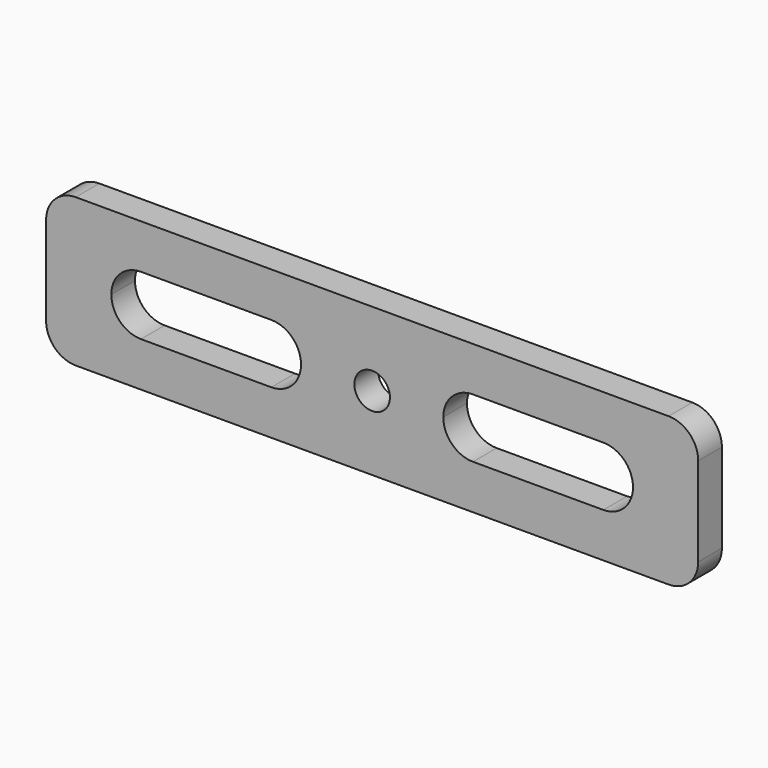
from build123d import *

# Parameters (mm, degrees)
F0_R     = 3
F1_DEPTH = 5


with BuildPart() as f1:
    # F0 (on Front) → F1 (new body)
    with BuildSketch(Plane.XZ):
        with BuildLine():
            Line((50, 12.5), (-50, 12.5))
            ThreePointArc((-50, 12.5), (-53.535534, 11.035534), (-55, 7.5))
            Line((-55, 7.5), (-55, -7.5))
            ThreePointArc((-55, -7.5), (-53.535534, -11.035534), (-50, -12.5))
            Line((-50, -12.5), (50, -12.5))
            ThreePointArc((50, -12.5), (53.535534, -11.035534), (55, -7.5))
            Line((55, -7.5), (55, 7.5))
            ThreePointArc((55, 7.5), (53.535534, 11.035534), (50, 12.5))
        make_face()
        with BuildLine():
            ThreePointArc((-44, 0), (-42.535534, 3.535534), (-39, 5))
            Line((-39, 5), (-17, 5))
            ThreePointArc((-17, 5), (-13.464466, 3.535534), (-12, 0))
            ThreePointArc((-12, 0), (-13.464466, -3.535534), (-17, -5))
            Line((-17, -5), (-39, -5))
            ThreePointArc((-39, -5), (-42.535534, -3.535534), (-44, 0))
        make_face(mode=Mode.SUBTRACT)
        Circle(F0_R, mode=Mode.SUBTRACT)
        with BuildLine():
            ThreePointArc((17, -5), (13.464466, -3.535534), (12, 0))
            ThreePointArc((12, 0), (13.464466, 3.535534), (17, 5))
            Line((17, 5), (39, 5))
            ThreePointArc((39, 5), (42.535534, 3.535534), (44, 0))
            ThreePointArc((44, 0), (42.535534, -3.535534), (39, -5))
            Line((39, -5), (17, -5))
        make_face(mode=Mode.SUBTRACT)
    extrude(amount=F1_DEPTH)


solid = f1.part
